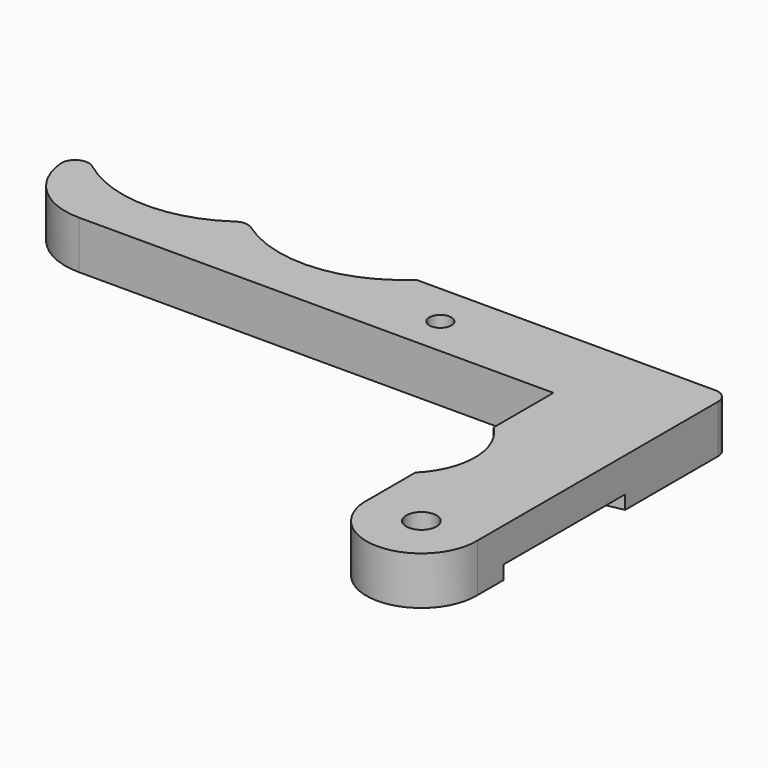
from build123d import *

# Parameters (mm, degrees)
SKETCH_R     = 2.2
SKETCH_R_2   = 1.6
PAD_DEPTH    = 7
POCKET_DEPTH = 2


with BuildPart() as part:
    # Sketch → Pad (new body)
    with BuildSketch(Plane.XY):
        with BuildLine():
            Line((-37.186391, 18), (31.875645, 18))
            Line((31.875645, 18), (31.875645, 7.116152))
            ThreePointArc((31.875645, -7.116152), (34.849951, 0), (31.875645, 7.116152))
            Line((31.875645, -7.116152), (31.875645, -15.359342))
            ThreePointArc((31.875645, -15.359342), (39.629949, -23.996974), (47.847419, -15.798736))
            Line((47.847419, -15.798736), (47.847419, 28))
            ThreePointArc((47.847419, 28), (47.261632, 29.414214), (45.847419, 30))
            Line((45.847419, 30), (2.298191, 30))
            ThreePointArc((-20.439447, 28.328622), (-8.772276, 25.105501), (2.298191, 30))
            ThreePointArc((-20.439447, 28.328622), (-21.583605, 28.69212), (-22.729772, 28.335007))
            ThreePointArc((-43.934553, 28.826581), (-33.412258, 25.125755), (-22.729772, 28.335007))
            ThreePointArc((-43.934553, 28.826581), (-46.120226, 28.987251), (-47.140964, 27.047901))
            ThreePointArc((-47.140964, 27.047901), (-43.912423, 20.599967), (-37.186391, 18))
        make_face()
        with Locations((39.849951, -16)):
            Circle(SKETCH_R, mode=Mode.SUBTRACT)
        with Locations((10.846568, 23.709484)):
            Circle(SKETCH_R_2, mode=Mode.SUBTRACT)
    extrude(amount=PAD_DEPTH)

    # Sketch001 → Pocket (cut)
    with BuildSketch(Plane(origin=(0, 0, 0), x_dir=(1, 0, 0), z_dir=(0, 0, -1))):
        Polygon((8.880411, 3), (52.827053, 12.125178), (52.827053, -12.125178), (8.880411, -3), align=None)
    extrude(amount=-POCKET_DEPTH, mode=Mode.SUBTRACT)


solid = part.part
